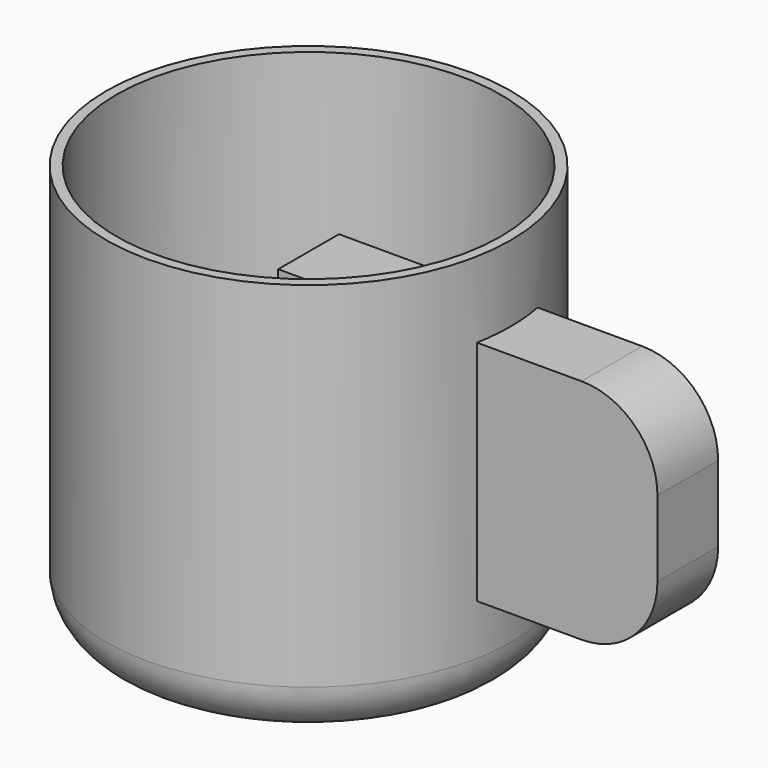
from build123d import *

# Parameters (mm, degrees)
F0_R     = 40
F1_DEPTH = 80
F2_R     = 10
F3_T     = -2
F4_W     = 75
F4_H     = 45
F5_DEPTH = 7.5
F6_R     = 15


with BuildPart() as f1:
    # F0 (on Top) → F1 (new body)
    with BuildSketch(Plane.XY):
        Circle(F0_R)
    extrude(amount=F1_DEPTH)

    # F2
    f2_edges = [f1.edges().sort_by_distance(p)[0] for p in [
        (-40, 0, 0),
    ]]
    fillet(f2_edges, radius=F2_R)

    # F3
    f3_openings = [f1.faces().sort_by_distance(p)[0] for p in [
        (0, 0, 80),
    ]]
    offset(amount=F3_T, openings=f3_openings)

    # F4 (on Front) → F5 (join, symmetric)
    with BuildSketch(Plane.XZ):
        with Locations((37.5, 42.5)):
            Rectangle(F4_W, F4_H)
    extrude(amount=F5_DEPTH, both=True)

    # F6
    f6_edges = [f1.edges().sort_by_distance(p)[0] for p in [
        (75, 0, 65),
        (75, 0, 20),
    ]]
    fillet(f6_edges, radius=F6_R)


solid = f1.part
